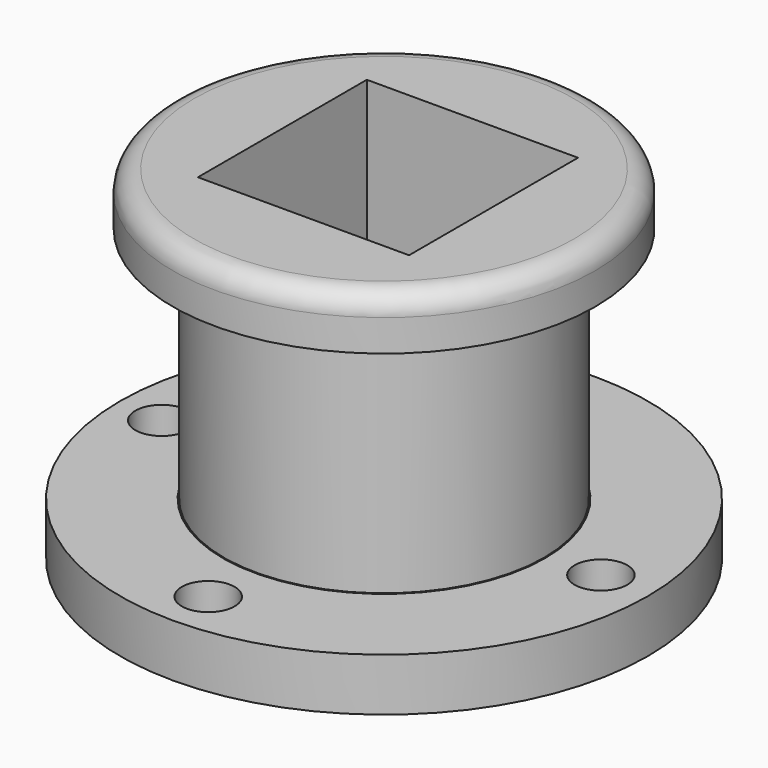
from build123d import *

# Parameters (mm, degrees)
F0_R     = 63.5
F0_R_2   = 6.35
F0_R_3   = 38.780217
F1_DEPTH = 12.7
F2_R     = 38.499956
F3_DEPTH = 57.15
F4_R     = 50.8
F4_R_2   = 38.499956
F5_DEPTH = 12.7
F6_W     = 50.8
F6_H     = 50.8
F7_DEPTH = 110.998
F8_R     = 5.08


with BuildPart() as f1:
    # F0 (on Top) → F1 (new body)
    with BuildSketch(Plane.XY):
        with Locations((9.146401, 16.197268)):
            Circle(F0_R)
        with Locations((8.255593, -35.540316)):
            Circle(F0_R_2, mode=Mode.SUBTRACT)
        with Locations((-43.324083, 14.959157)):
            Circle(F0_R_2, mode=Mode.SUBTRACT)
        with Locations((8.525645, 66.538833)):
            Circle(F0_R_2, mode=Mode.SUBTRACT)
        with Locations((9.146401, 16.197268)):
            Circle(F0_R_3, mode=Mode.SUBTRACT)
        with Locations((60.37537, 17.389616)):
            Circle(F0_R_2, mode=Mode.SUBTRACT)
    extrude(amount=F1_DEPTH)


with BuildPart() as f3:
    # F2 (on face) → F3 (new body)
    with BuildSketch(Plane.XY.offset(12.7)):
        with Locations((9.146401, 16.197268)):
            Circle(F2_R)
    extrude(amount=F3_DEPTH)

    # F4 (on face) → F5 (join)
    with BuildSketch(Plane.XY.offset(69.85)):
        with Locations((9.146401, 16.197268)):
            Circle(F4_R)
        with Locations((9.146401, 16.197268)):
            Circle(F4_R_2, mode=Mode.SUBTRACT)
        with Locations((9.146401, 16.197268)):
            Circle(F4_R_2)
    extrude(amount=F5_DEPTH)

    # F6 (on face) → F7 (cut)
    with BuildSketch(Plane.XY.offset(82.55)):
        with Locations((9.397964, 17.072194)):
            Rectangle(F6_W, F6_H)
    extrude(amount=-F7_DEPTH, mode=Mode.SUBTRACT)

    # F8
    f8_edges = [f3.edges().sort_by_distance(p)[0] for p in [
        (-41.653599, 16.197268, 82.55),
    ]]
    fillet(f8_edges, radius=F8_R)


solid = Compound([f1.part, f3.part])
